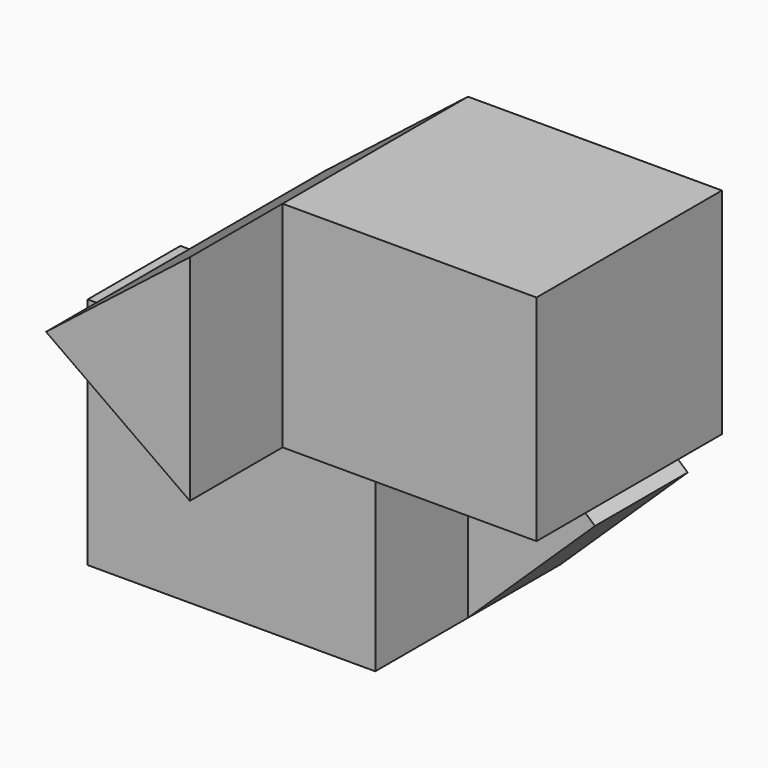
from build123d import *

# Parameters (mm, degrees)
F0_W     = 63.031606
F0_H     = 51.275146
F1_DEPTH = 25.4
F0_W_2   = 55.666108
F0_H_2   = 47.025826
F2_DEPTH = 50.8
F3_DEPTH = 76.2
F4_DEPTH = 25.4


with BuildPart() as f1:
    # F0 (on Front) → F1 (new body)
    with BuildSketch(Plane.XZ):
        with Locations((-31.515803, -27.903875)):
            Rectangle(F0_W, F0_H)
    extrude(amount=F1_DEPTH)

    # F0 (on Front) → F4 (join)
    with BuildSketch(Plane.XZ):
        Polygon((0, -53.541448), (27.833054, -26.770724), (0, -2.266302), align=None)
    extrude(amount=-F4_DEPTH)


with BuildPart() as f2:
    # F0 (on Front) → F2 (new body)
    with BuildSketch(Plane.XZ):
        with Locations((27.833054, 23.512913)):
            Rectangle(F0_W_2, F0_H_2)
    extrude(amount=F2_DEPTH)

    # F0 (on Front) → F3 (join)
    with BuildSketch(Plane.XZ):
        Polygon((-31.515803, 22.379762), (0, 0), (0, 47.025826), align=None)
    extrude(amount=F3_DEPTH)


solid = Compound([f1.part, f2.part])
